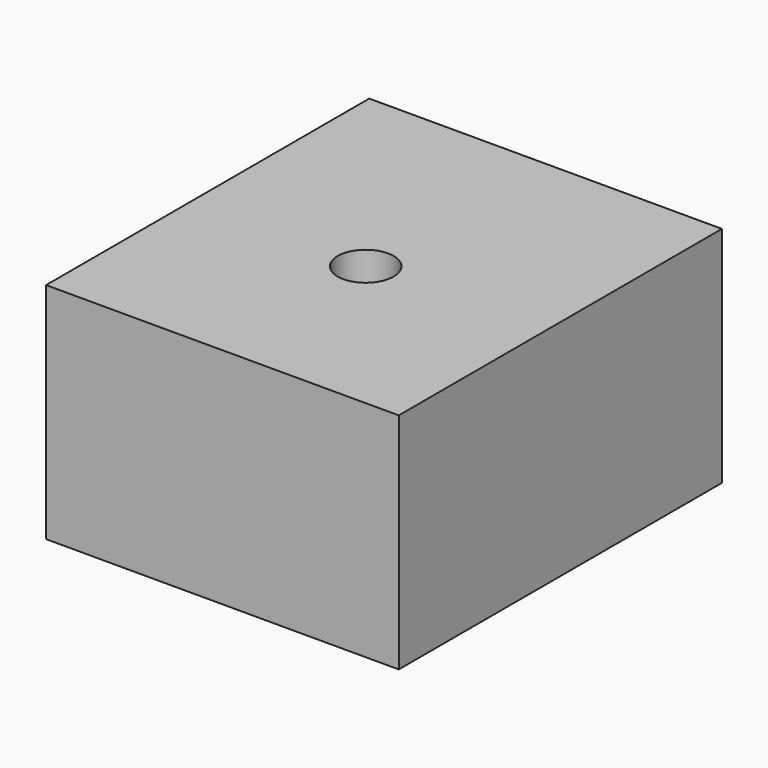
from build123d import *

# Parameters (mm, degrees)
F1_W     = 40.050313
F1_H     = 45.869119
F2_DEPTH = 25.4
F4_D     = 6.35


with BuildPart() as f2:
    # F1 (on face) → F2 (new body)
    with BuildSketch(Plane.XY):
        with Locations((2.885028, -3.19134)):
            Rectangle(F1_W, F1_H)
    extrude(amount=F2_DEPTH)

    # F4 (through all)
    with Locations(Plane.XY.offset(25.4)):
        with Locations((2.731761, -5.602613)):
            Hole(F4_D / 2)


solid = f2.part
